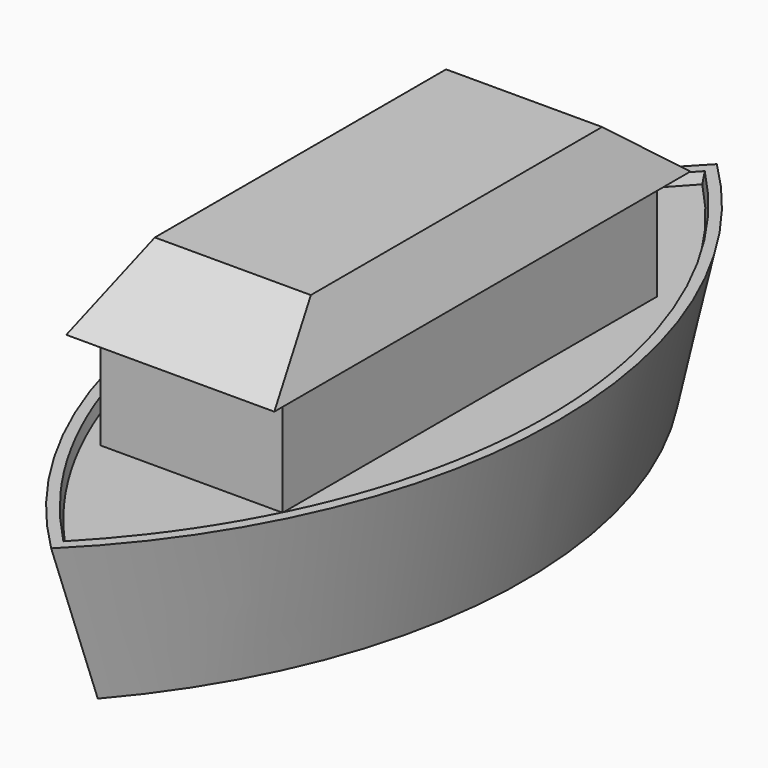
from build123d import *

# Parameters (mm, degrees)
F4_T     = -2.54
F7_DEPTH = 2.54
F8_W     = 44.45
F8_H     = 114.3
F9_DEPTH = 25.4
F13_W    = 50.8
F13_H    = 127
F11_W    = 38.1
F11_H    = 88.9


with BuildPart() as f3:
    # F0 (on Top) → F3 section 0
    with BuildSketch(Plane.XY):
        with BuildLine():
            ThreePointArc((0, 79.1834323877), (-33.0563178037, -9.7165676123), (0, -98.6165676123))
            ThreePointArc((0, -98.6165676123), (33.0563178037, -9.7165676123), (0, 79.1834323877))
        make_face()
    # F2 (on offset) → F3 section 1
    with BuildSketch(Plane.XY.offset(38.1)):
        with BuildLine():
            ThreePointArc((0, 90.3536503496), (-42.4992821869, -11.2463496504), (0, -112.8463496504))
            ThreePointArc((0, -112.8463496504), (42.4992821869, -11.2463496504), (0, 90.3536503496))
        make_face()
    loft()

    # F4
    f4_openings = [f3.faces().sort_by_distance(p)[0] for p in [
        (0, -11.24635, 38.1),
    ]]
    offset(amount=F4_T, openings=f4_openings)

    # F6 (on offset) → F7 (join)
    with BuildSketch(Plane.XY.offset(35.56)):
        with BuildLine():
            ThreePointArc((0, 87.4059291422), (-40.4220024881, -10.8625479043), (0, -109.1310249507))
            ThreePointArc((0, -109.1310249507), (39.5185295328, -10.8625479043), (0, 87.4059291422))
        make_face()
    extrude(amount=-F7_DEPTH)

    # F8 (on offset) → F9 (join)
    with BuildSketch(Plane.XY.offset(35.56)):
        with Locations((0, -12.8250825944)):
            Rectangle(F8_W, F8_H)
    extrude(amount=F9_DEPTH)

    # F13 (on offset) → F14 section 0
    with BuildSketch(Plane.XY.offset(60.96)):
        with Locations((0, -12.9791411197)):
            Rectangle(F13_W, F13_H)
    # F11 (on offset) → F14 section 1
    with BuildSketch(Plane.XY.offset(76.2)):
        with Locations((0, -12.9365438215)):
            Rectangle(F11_W, F11_H)
    loft()


solid = f3.part
